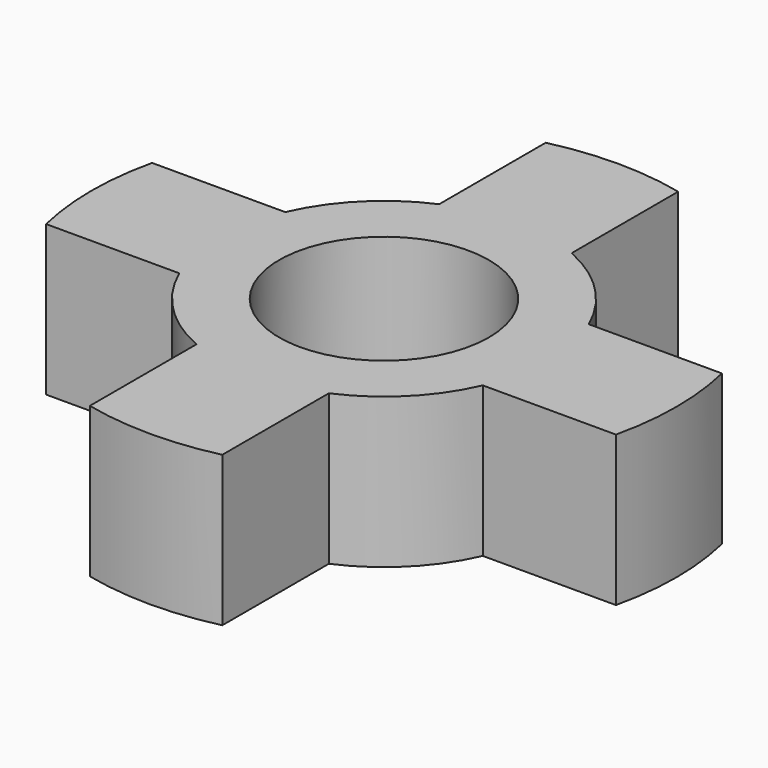
from build123d import *

# Parameters (mm, degrees)
F0_R     = 4.75
F1_DEPTH = 6.8


with BuildPart() as f1:
    # F0 (on Top) → F1 (new body)
    with BuildSketch(Plane.XY):
        with BuildLine():
            Line((-12.905909, -3), (-6.873864, -3))
            ThreePointArc((-6.873864, -3), (-5.303301, -5.303301), (-3, -6.873864))
            Line((-3, -6.873864), (-3, -12.905909))
            ThreePointArc((-3, -12.905909), (0, -13.25), (3, -12.905909))
            Line((3, -12.905909), (3, -6.873864))
            ThreePointArc((3, -6.873864), (5.303301, -5.303301), (6.873864, -3))
            Line((6.873864, -3), (12.905909, -3))
            ThreePointArc((12.905909, -3), (13.25, 0), (12.905909, 3))
            Line((12.905909, 3), (6.873864, 3))
            ThreePointArc((6.873864, 3), (5.303301, 5.303301), (3, 6.873864))
            Line((3, 6.873864), (3, 12.905909))
            ThreePointArc((3, 12.905909), (0, 13.25), (-3, 12.905909))
            Line((-3, 12.905909), (-3, 6.873864))
            ThreePointArc((-3, 6.873864), (-5.303301, 5.303301), (-6.873864, 3))
            Line((-6.873864, 3), (-12.905909, 3))
            ThreePointArc((-12.905909, 3), (-13.25, 0), (-12.905909, -3))
        make_face()
        Circle(F0_R, mode=Mode.SUBTRACT)
    extrude(amount=F1_DEPTH)


solid = f1.part
